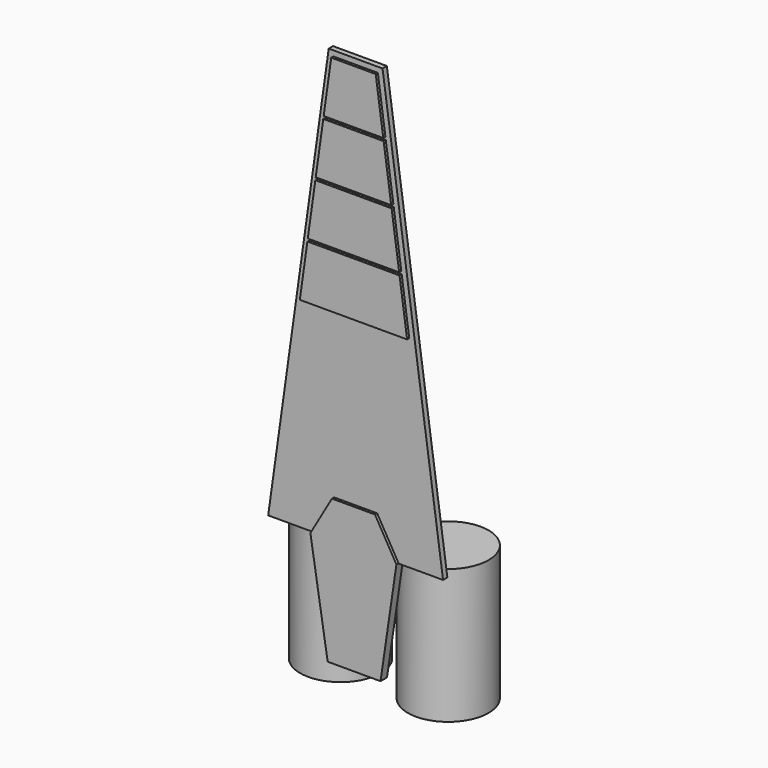
from build123d import *

# Parameters (mm, degrees)
F3_DEPTH = 1.5
F4_DEPTH = 1
F5_DEPTH = 1.5
F6_R     = 7.5
F7_DEPTH = 25


with BuildPart() as f3:
    # F2 (on Front) → F3 (new body)
    with BuildSketch(Plane.XZ):
        Polygon((5.536122, 69), (4.130713, 79), (-4.130713, 79), (-5.536122, 69), align=None)
        Polygon((5.606392, 68.5), (-5.606392, 68.5), (-7.0118, 58.5), (7.0118, 58.5), align=None)
        Polygon((-7.082071, 58), (-8.487479, 48), (8.487479, 48), (7.082071, 58), align=None)
        Polygon((-8.55775, 47.5), (-9.963158, 37.5), (9.963158, 37.5), (8.55775, 47.5), align=None)
    extrude(amount=F3_DEPTH)


with BuildPart() as f4:
    # F0 (on Front) → F4 (new body)
    with BuildSketch(Plane.XZ):
        Polygon((5, 80), (-5, 80), (-16.243267, 0), (16.243267, 0), align=None)
    extrude(amount=F4_DEPTH)

    # F1 (on Front) → F5 (join)
    with BuildSketch(Plane.XZ):
        Polygon((-4, 6.928203), (-8, 0), (-4.796107, -20), (5.02966, -20), (7.977267, 0.039375), (4, 6.928203), align=None)
    extrude(amount=F5_DEPTH)


with BuildPart() as f7:
    # F6 (on Top) → F7 (new body)
    with BuildSketch(Plane.XY):
        with Locations((-10, 8)):
            Circle(F6_R)
        with Locations((10, 8)):
            Circle(F6_R)
    extrude(amount=-F7_DEPTH)


solid = Compound([f3.part, f4.part, f7.part])
